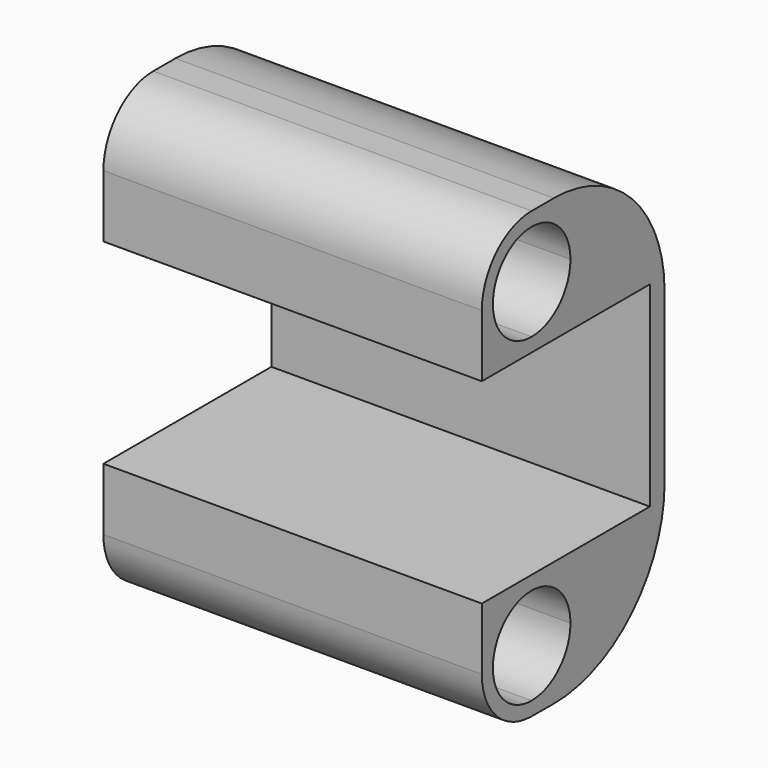
from build123d import *

# Parameters (mm, degrees)
F1_DEPTH = 82


with BuildPart() as f1:
    # F0 (on Right) → F1 (new body)
    with BuildSketch(Plane.YZ):
        with BuildLine():
            Line((17.505096594, 69.6115375847), (31.005096594, 69.6115375847))
            ThreePointArc((31.005096594, 69.6115375847), (21.459155048, 73.5655960386), (17.505096594, 83.1115375847))
            Line((17.505096594, 83.1115375847), (17.505096594, 69.6115375847))
        make_face()
        with BuildLine():
            ThreePointArc((17.505096594, 13.7115375847), (21.459155048, 23.2574791307), (31.005096594, 27.2115375847))
            Line((31.005096594, 27.2115375847), (17.505096594, 27.2115375847))
            Line((17.505096594, 27.2115375847), (17.505096594, 13.7115375847))
        make_face()
        with BuildLine():
            Line((31.005096594, 0.2115375847), (31.005096594, 3.2115375847))
            ThreePointArc((31.005096594, 3.2115375847), (23.5804753915, 6.2869163822), (20.505096594, 13.7115375847))
            Line((20.505096594, 13.7115375847), (17.505096594, 13.7115375847))
            ThreePointArc((17.505096594, 13.7115375847), (21.459155048, 4.1655960386), (31.005096594, 0.2115375847))
        make_face()
        with BuildLine():
            ThreePointArc((20.505096594, 13.7115375847), (23.5804753915, 21.1361587871), (31.005096594, 24.2115375847))
            Line((31.005096594, 24.2115375847), (31.005096594, 27.2115375847))
            ThreePointArc((31.005096594, 27.2115375847), (21.459155048, 23.2574791307), (17.505096594, 13.7115375847))
            Line((17.505096594, 13.7115375847), (20.505096594, 13.7115375847))
        make_face()
        with BuildLine():
            Line((44.505096594, 13.7115375847), (41.505096594, 13.7115375847))
            ThreePointArc((41.505096594, 13.7115375847), (38.4297177964, 6.2869163822), (31.005096594, 3.2115375847))
            Line((31.005096594, 3.2115375847), (31.005096594, 0.2115375847))
            ThreePointArc((31.005096594, 0.2115375847), (40.55103814, 4.1655960386), (44.505096594, 13.7115375847))
        make_face()
        with BuildLine():
            ThreePointArc((31.005096594, 96.6115375847), (21.459155048, 92.6574791307), (17.505096594, 83.1115375847))
            Line((17.505096594, 83.1115375847), (20.505096594, 83.1115375847))
            ThreePointArc((20.505096594, 83.1115375847), (31.005096594, 93.6115375847), (41.505096594, 83.1115375847))
            Line((41.505096594, 83.1115375847), (44.505096594, 83.1115375847))
            ThreePointArc((44.505096594, 83.1115375847), (40.55103814, 92.6574791307), (31.005096594, 96.6115375847))
        make_face()
        with BuildLine():
            ThreePointArc((17.505096594, 83.1115375847), (21.459155048, 73.5655960386), (31.005096594, 69.6115375847))
            Line((31.005096594, 69.6115375847), (31.005096594, 72.6115375847))
            ThreePointArc((31.005096594, 72.6115375847), (23.5804753915, 75.6869163822), (20.505096594, 83.1115375847))
            Line((20.505096594, 83.1115375847), (17.505096594, 83.1115375847))
        make_face()
        with BuildLine():
            Line((44.505096594, 27.2115375847), (44.505096594, 13.7115375847))
            ThreePointArc((44.505096594, 13.7115375847), (40.55103814, 4.1655960386), (31.005096594, 0.2115375847))
            Line((31.005096594, 0.2115375847), (36.8288183167, 0.1773171395))
            ThreePointArc((36.8288183167, 0.1773171395), (58.1558844242, 8.901363301), (67.005096594, 30.1767992345))
            Line((67.005096594, 30.1767992345), (67.005096594, 66.6115375847))
            ThreePointArc((67.005096594, 66.6115375847), (58.2183000296, 87.8247410203), (37.005096594, 96.6115375847))
            Line((37.005096594, 96.6115375847), (31.005096594, 96.6115375847))
            ThreePointArc((31.005096594, 96.6115375847), (40.55103814, 92.6574791307), (44.505096594, 83.1115375847))
            Line((44.505096594, 83.1115375847), (44.505096594, 69.6115375847))
            Line((44.505096594, 69.6115375847), (63.005096594, 69.6115375847))
            Line((63.005096594, 69.6115375847), (63.005096594, 27.2115375847))
            Line((63.005096594, 27.2115375847), (44.505096594, 27.2115375847))
        make_face()
        with BuildLine():
            ThreePointArc((31.005096594, 27.2115375847), (40.55103814, 23.2574791307), (44.505096594, 13.7115375847))
            Line((44.505096594, 13.7115375847), (44.505096594, 27.2115375847))
            Line((44.505096594, 27.2115375847), (31.005096594, 27.2115375847))
        make_face()
        with BuildLine():
            ThreePointArc((31.005096594, 24.2115375847), (38.4297177964, 21.1361587871), (41.505096594, 13.7115375847))
            Line((41.505096594, 13.7115375847), (44.505096594, 13.7115375847))
            ThreePointArc((44.505096594, 13.7115375847), (40.55103814, 23.2574791307), (31.005096594, 27.2115375847))
            Line((31.005096594, 27.2115375847), (31.005096594, 24.2115375847))
        make_face()
        with BuildLine():
            ThreePointArc((44.505096594, 83.1115375847), (40.55103814, 73.5655960386), (31.005096594, 69.6115375847))
            Line((31.005096594, 69.6115375847), (44.505096594, 69.6115375847))
            Line((44.505096594, 69.6115375847), (44.505096594, 83.1115375847))
        make_face()
        with BuildLine():
            Line((31.005096594, 72.6115375847), (31.005096594, 69.6115375847))
            ThreePointArc((31.005096594, 69.6115375847), (40.55103814, 73.5655960386), (44.505096594, 83.1115375847))
            Line((44.505096594, 83.1115375847), (41.505096594, 83.1115375847))
            ThreePointArc((41.505096594, 83.1115375847), (38.4297177964, 75.6869163822), (31.005096594, 72.6115375847))
        make_face()
    extrude(amount=F1_DEPTH)


solid = f1.part
